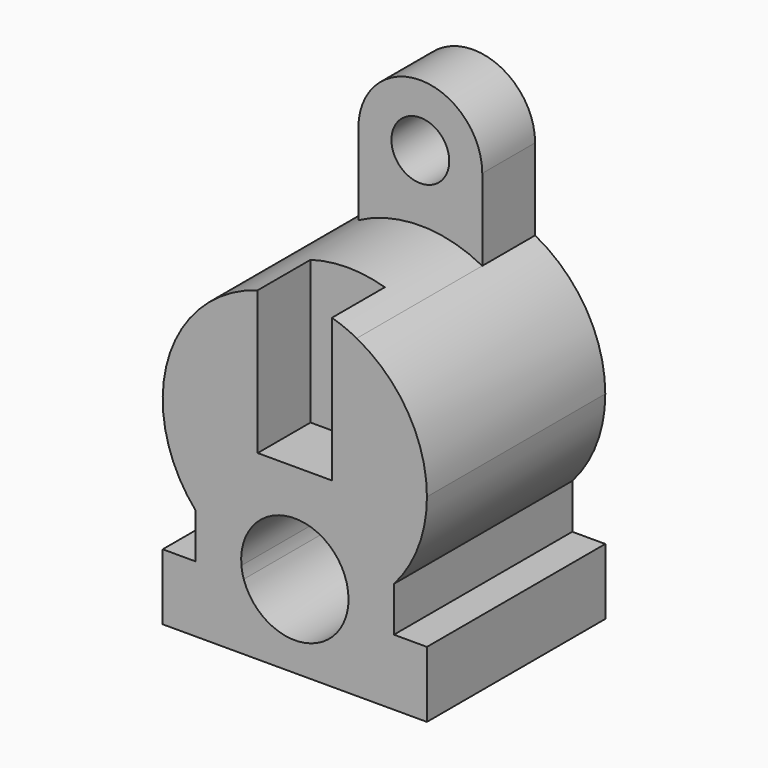
from build123d import *

# Parameters (mm, degrees)
F1_DEPTH = 27
F2_DEPTH = 8
F4_DEPTH = 8


with BuildPart() as f1:
    # F0 (on Front) → F1 (new body)
    with BuildSketch(Plane.XZ):
        with BuildLine():
            ThreePointArc((-7.5, 38.1332940251), (-15.7412312858, 26.8659444529), (-12, 13.4169947557))
            Line((-12, 13.4169947557), (-12, 22))
            Line((-12, 22), (12, 22))
            Line((12, 22), (12, 13.4169947557))
            ThreePointArc((12, 13.4169947557), (14.9666295471, 18.3431457505), (16, 24))
            ThreePointArc((16, 24), (13.7113092008, 32.2462112512), (7.5, 38.1332940251))
            Line((7.5, 38.1332940251), (-7.5, 38.1332940251))
        make_face()
        with BuildLine():
            Line((-12, 22), (-12, 13.4169947557))
            ThreePointArc((-12, 13.4169947557), (-9.454026078, 11.091809154), (-6.4690134152, 9.3660714286))
            ThreePointArc((-6.4690134152, 9.3660714286), (-0.3173427178, 16.4922487321), (6.5, 10))
            ThreePointArc((6.5, 10), (6.4922487321, 9.6826572822), (6.4690134152, 9.3660714286))
            ThreePointArc((6.4690134152, 9.3660714286), (9.454026078, 11.091809154), (12, 13.4169947557))
            Line((12, 13.4169947557), (12, 22))
            Line((12, 22), (-12, 22))
        make_face()
        with BuildLine():
            ThreePointArc((7.5, 38.1332940251), (0, 40), (-7.5, 38.1332940251))
            Line((-7.5, 38.1332940251), (7.5, 38.1332940251))
        make_face()
        with BuildLine():
            Line((-12, 8), (-16, 8))
            Line((-16, 8), (-16, 0))
            Line((-16, 0), (16, 0))
            Line((16, 0), (16, 8))
            Line((16, 8), (12, 8))
            Line((12, 8), (6.1846584384, 8))
            ThreePointArc((6.1846584384, 8), (0, 3.5), (-6.1846584384, 8))
            Line((-6.1846584384, 8), (-12, 8))
        make_face()
        with BuildLine():
            ThreePointArc((6.4690134152, 9.3660714286), (6.3635988742, 8.6753833128), (6.1846584384, 8))
            Line((6.1846584384, 8), (12, 8))
            Line((12, 8), (12, 13.4169947557))
            ThreePointArc((12, 13.4169947557), (9.454026078, 11.091809154), (6.4690134152, 9.3660714286))
        make_face()
        with BuildLine():
            Line((-12, 13.4169947557), (-12, 8))
            Line((-12, 8), (-6.1846584384, 8))
            ThreePointArc((-6.1846584384, 8), (-6.3635988742, 8.6753833128), (-6.4690134152, 9.3660714286))
            ThreePointArc((-6.4690134152, 9.3660714286), (-9.454026078, 11.091809154), (-12, 13.4169947557))
        make_face()
    extrude(amount=F1_DEPTH)

    # F0 (on Front) → F2 (join)
    with BuildSketch(Plane.XZ):
        with BuildLine():
            Line((-3.5, 48), (-7.5, 48))
            ThreePointArc((-7.5, 48), (0, 40.5), (7.5, 48))
            Line((7.5, 48), (3.5, 48))
            ThreePointArc((3.5, 48), (0, 44.5), (-3.5, 48))
        make_face()
        with BuildLine():
            ThreePointArc((7.5, 48), (0, 55.5), (-7.5, 48))
            Line((-7.5, 48), (-3.5, 48))
            ThreePointArc((-3.5, 48), (0, 51.5), (3.5, 48))
            Line((3.5, 48), (7.5, 48))
        make_face()
        with BuildLine():
            Line((-7.5, 48), (-7.5, 38.1332940251))
            ThreePointArc((-7.5, 38.1332940251), (0, 40), (7.5, 38.1332940251))
            Line((7.5, 38.1332940251), (7.5, 48))
            ThreePointArc((7.5, 48), (0, 40.5), (-7.5, 48))
        make_face()
    extrude(amount=F2_DEPTH)

    # F3 (on face) → F4 (cut)
    with BuildSketch(Plane.XZ.offset(27)):
        with BuildLine():
            Line((-4.5, 39.3541525328), (-4.5, 22))
            Line((-4.5, 22), (4.5, 22))
            Line((4.5, 22), (4.5, 39.3541525328))
            ThreePointArc((4.5, 39.3541525328), (0, 40), (-4.5, 39.3541525328))
        make_face()
    extrude(amount=-F4_DEPTH, mode=Mode.SUBTRACT)


solid = f1.part
